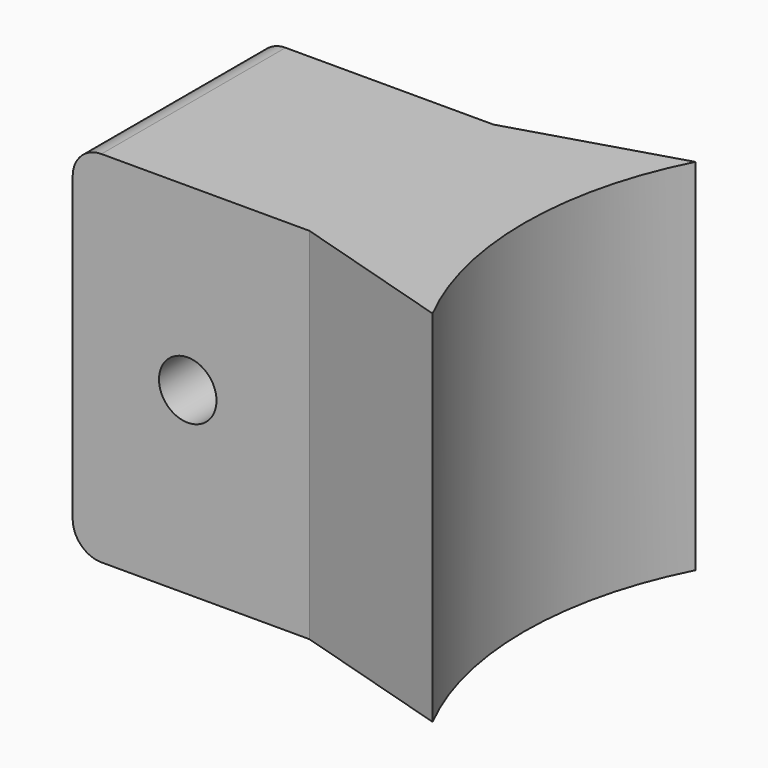
from build123d import *

# Parameters (mm, degrees)
PAD004_DEPTH         = 25
FILLET005_R          = 2
SKETCH009_R          = 2
POCKET004_DEPTH      = 11.420051
POCKET004_DEPTH_BACK = 11.420051


with BuildPart() as part:
    # Sketch008 → Pad004 (new body)
    with BuildSketch(Plane.XY):
        with BuildLine():
            ThreePointArc((-7.239723, 11.419051), (-10, 0), (-7.239723, -11.419051))
            Line((-18.540393, -8), (-7.239723, -11.419051))
            Line((-35, -8), (-18.540393, -8))
            Line((-35, 8), (-35, -8))
            Line((-18.540393, 8), (-35, 8))
            Line((-7.239723, 11.419051), (-18.540393, 8))
        make_face()
    extrude(amount=PAD004_DEPTH)

    # Fillet005
    fillet005_edges = [part.edges().sort_by_distance(p)[0] for p in [
        (-35, 0, 25),
        (-35, 0, 0),
    ]]
    fillet(fillet005_edges, radius=FILLET005_R)

    # Sketch009 → Pocket004 (cut, two sides)
    with BuildSketch(Plane.XZ) as pocket004_sk:
        with Locations((-27, 12.5)):
            Circle(SKETCH009_R)
    extrude(amount=-POCKET004_DEPTH, mode=Mode.SUBTRACT)
    extrude(pocket004_sk.sketch, amount=POCKET004_DEPTH_BACK, mode=Mode.SUBTRACT)


with BuildPart() as part_1:
    # Body004 placement: moved
    add(part.part.moved(Location((90, 0, 0))))


solid = part_1.part
